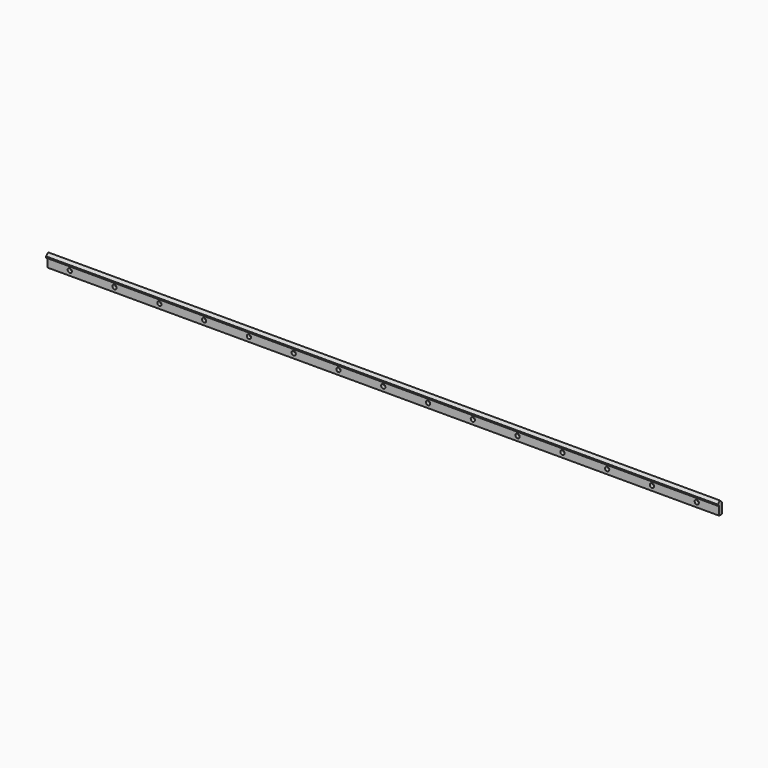
from build123d import *

# Parameters (mm, degrees)
F1_DEPTH = 571.5
F2_R     = 3.5687
F3_DEPTH = 25.4


with BuildPart() as f1:
    # F0 (on Right) → F1 (new body, symmetric)
    with BuildSketch(Plane.YZ):
        with BuildLine():
            Line((-1.5748, -22.2504), (4.3688, -22.2504))
            Line((4.3688, -22.2504), (4.3688, -4.3688))
            Line((4.3688, -4.3688), (0, 0))
            Line((0, 0), (-4.3688, -4.3688))
            Line((-4.3688, -4.3688), (-4.3688, -6.35))
            Line((-4.3688, -6.35), (-1.584269, -6.35))
            Line((-1.584269, -6.35), (-1.5748, -6.35))
            ThreePointArc((-1.5748, -6.35), (-1.485091, -6.444325), (-1.5748, -6.53865))
            Line((-1.5748, -6.53865), (-1.5748, -22.2504))
        make_face()
    extrude(amount=F1_DEPTH, both=True)

    # F2 (on face) → F3 (cut)
    with BuildSketch(Plane.XZ.offset(1.5748)):
        with Locations((0, -14.3002)):
            Circle(F2_R)
        with Locations((76.2, -14.3002)):
            Circle(F2_R)
        with Locations((152.4, -14.3002)):
            Circle(F2_R)
        with Locations((228.6, -14.3002)):
            Circle(F2_R)
        with Locations((304.8, -14.3002)):
            Circle(F2_R)
        with Locations((381, -14.3002)):
            Circle(F2_R)
        with Locations((457.2, -14.3002)):
            Circle(F2_R)
        with Locations((533.4, -14.3002)):
            Circle(F2_R)
        with Locations((-76.2, -14.3002)):
            Circle(F2_R)
        with Locations((-152.4, -14.3002)):
            Circle(F2_R)
        with Locations((-228.6, -14.3002)):
            Circle(F2_R)
        with Locations((-304.8, -14.3002)):
            Circle(F2_R)
        with Locations((-381, -14.3002)):
            Circle(F2_R)
        with Locations((-457.2, -14.3002)):
            Circle(F2_R)
        with Locations((-533.4, -14.3002)):
            Circle(F2_R)
    extrude(amount=-F3_DEPTH, mode=Mode.SUBTRACT)


solid = f1.part
